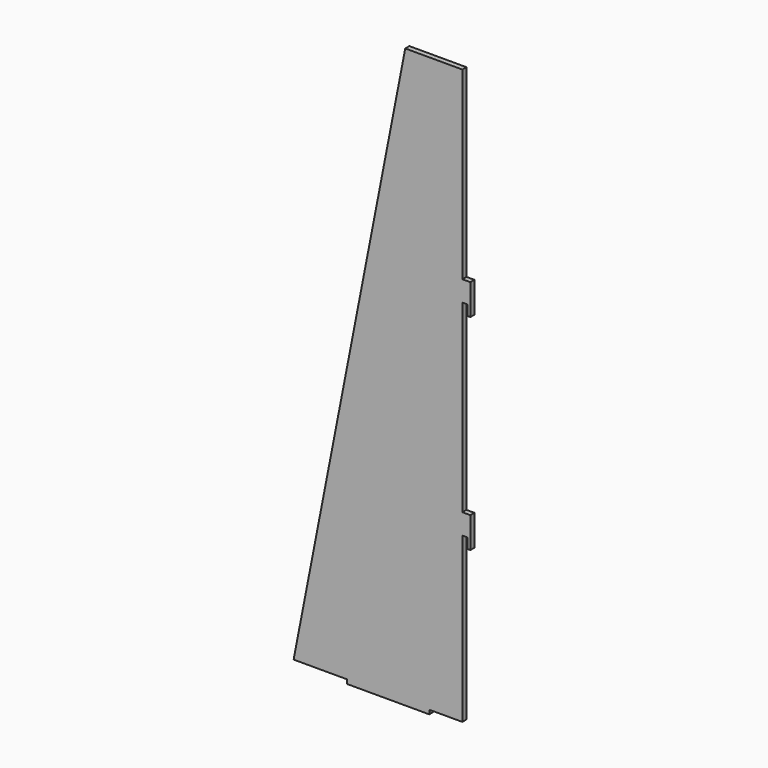
from build123d import *

# Parameters (mm, degrees)
F1_DEPTH = 2.5
F3_DEPTH = 25


with BuildPart() as f1:
    # F0 (on Front) → F1 (new body)
    with BuildSketch(Plane.XZ):
        Polygon((-31.706513, 280), (-86.133, 0), (-60, 0), (-60, -2), (-20, -2), (-20, 0), (0, 0), (0, 280), align=None)
    extrude(amount=F1_DEPTH)

    # F2 (on Front) → F3 (cut)
    with BuildSketch(Plane.XZ):
        Polygon((25.523714, -10), (25.523714, 285.471179), (-3.88, 285.471179), (-3.88, 190), (3.67, 190), (3.67, 175), (-1.33, 175), (-1.33, 180), (-3.88, 180), (-3.88, 90), (3.67, 90), (3.67, 75), (-1.33, 75), (-1.33, 80), (-3.88, 80), (-3.88, -10), align=None)
    extrude(amount=F3_DEPTH, mode=Mode.SUBTRACT)


solid = f1.part
